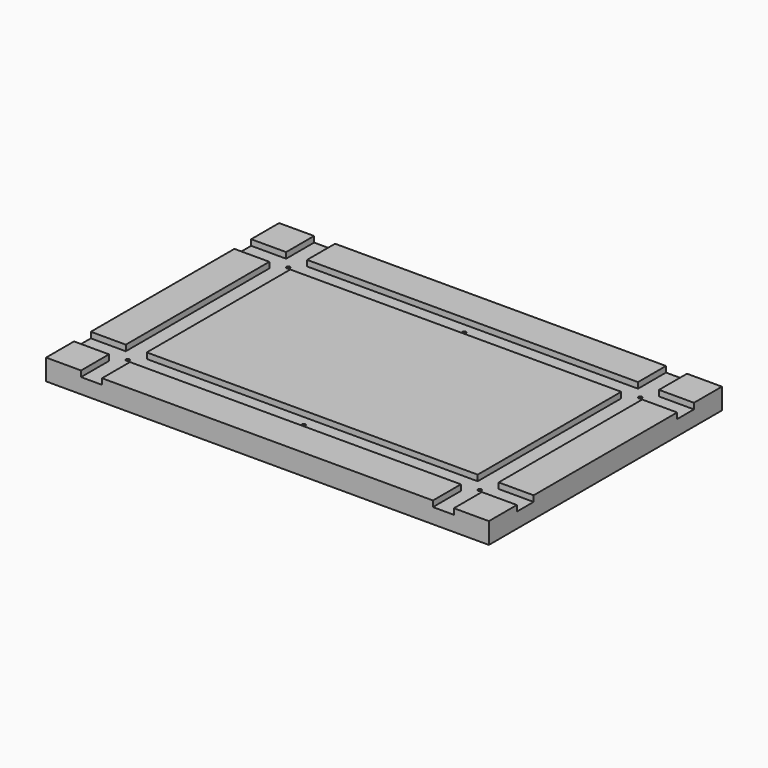
from build123d import *

# Parameters (mm, degrees)
SKETCH_W     = 380
SKETCH_H     = 250
PAD_DEPTH    = 18
SKETCH001_W  = 284
SKETCH001_H  = 154
POCKET_DEPTH = 5
SKETCH004_R  = 1.55
HOLE_DEPTH   = 13.001


with BuildPart() as part:
    # Sketch → Pad (new body)
    with BuildSketch(Plane.XY):
        with Locations((190, 125)):
            Rectangle(SKETCH_W, SKETCH_H)
    extrude(amount=PAD_DEPTH)

    # Sketch001 (on Face6 of Pad) → Pocket (cut)
    with BuildSketch(Plane.XY.offset(18)):
        Polygon((30, 250), (30, 220), (0, 220), (0, 202), (30, 202), (30, 48), (0, 48), (0, 30), (30, 30), (30, 0), (48, 0), (48, 30), (332, 30), (332, 0), (350, 0), (350, 30), (380, 30), (380, 48), (350, 48), (350, 202), (380, 202), (380, 220), (350, 220), (350, 250), (332, 250), (332, 220), (48, 220), (48, 250), align=None)
        with Locations((190, 125)):
            Rectangle(SKETCH001_W, SKETCH001_H, mode=Mode.SUBTRACT)
    extrude(amount=-POCKET_DEPTH, mode=Mode.SUBTRACT)

    # Sketch004 (on Face6 of Pocket) → Hole (cut, through all)
    with BuildSketch(Plane.XY.offset(13)):
        with Locations((39, 39)):
            Circle(SKETCH004_R)
        with Locations((341, 39)):
            Circle(SKETCH004_R)
        with Locations((341, 211)):
            Circle(SKETCH004_R)
        with Locations((39, 211)):
            Circle(SKETCH004_R)
        with Locations((190, 211)):
            Circle(SKETCH004_R)
        with Locations((190, 39)):
            Circle(SKETCH004_R)
    extrude(amount=-HOLE_DEPTH, mode=Mode.SUBTRACT)


solid = part.part
